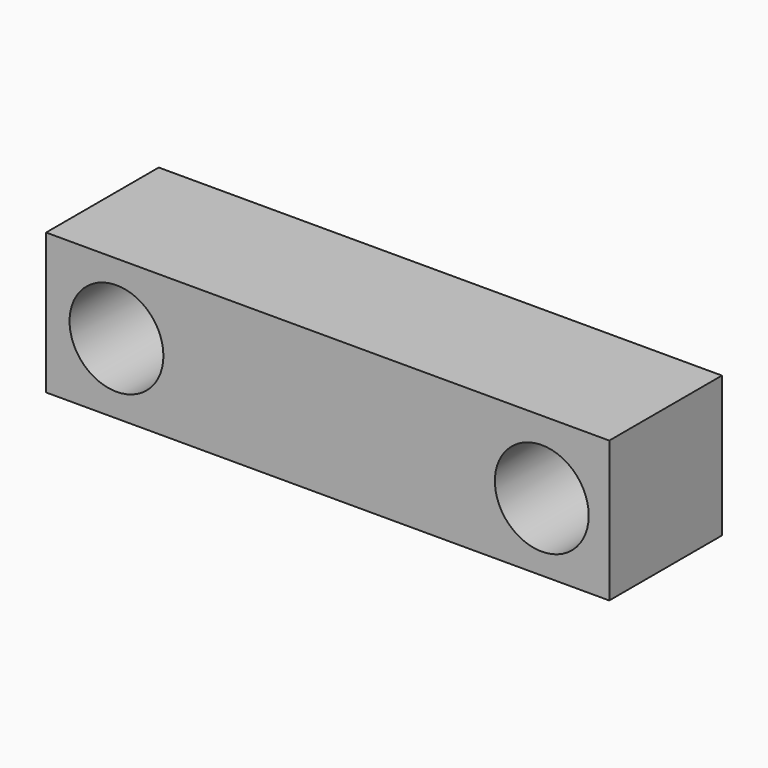
from build123d import *

# Parameters (mm, degrees)
F0_W     = 76.2
F0_H     = 19.05
F1_DEPTH = 19.05
F3_D     = 12.7
F4_R     = 6.35
F5_DEPTH = 51.054


with BuildPart() as f1:
    # F0 (on Top) → F1 (new body)
    with BuildSketch(Plane.XY):
        with Locations((9.621889, -4.491718)):
            Rectangle(F0_W, F0_H)
    extrude(amount=F1_DEPTH)

    # F3 (through all)
    with Locations(Plane(origin=(0, 5.033282, 0), x_dir=(-1, 0, 0), z_dir=(0, 1, 0))):
        with Locations((18.953111, 9.525)):
            Hole(F3_D / 2)

    # F4 (on face) → F5 (cut)
    with BuildSketch(Plane.XZ.offset(14.016718)):
        with Locations((38.593322, 9.200889)):
            Circle(F4_R)
    extrude(amount=-F5_DEPTH, mode=Mode.SUBTRACT)


solid = f1.part
